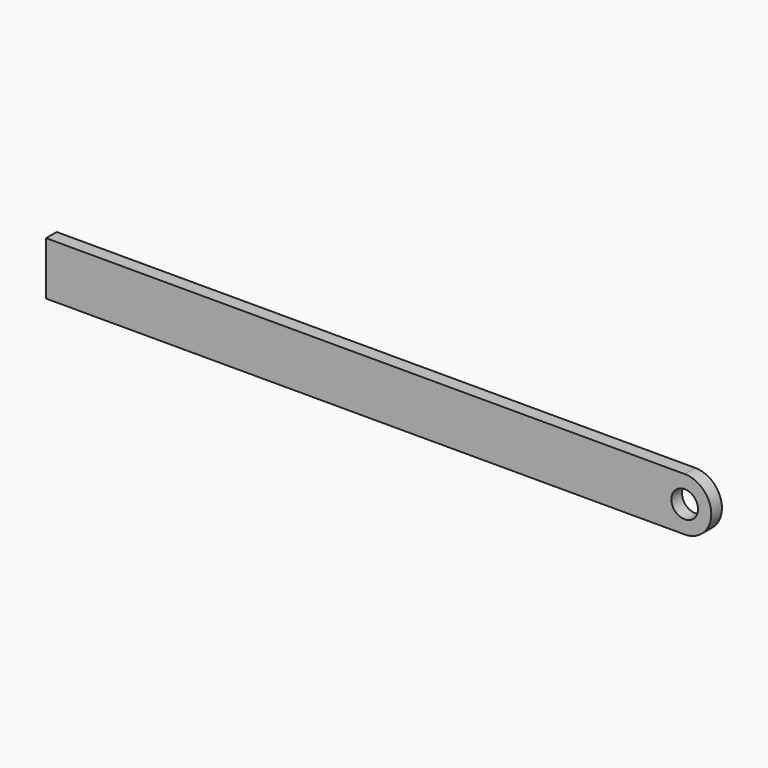
from build123d import *

# Parameters (mm, degrees)
F0_R     = 6.35
F1_DEPTH = 3.175


with BuildPart() as f1:
    # F0 (on Front) → F1 (new body, symmetric)
    with BuildSketch(Plane.XZ):
        with BuildLine():
            ThreePointArc((152.4, -12.7), (165.1, 0), (152.4, 12.7))
            Line((152.4, 12.7), (-152.4, 12.7))
            Line((-152.4, 12.7), (-152.4, -12.7))
            Line((-152.4, -12.7), (152.4, -12.7))
        make_face()
        with Locations((152.4, 0)):
            Circle(F0_R, mode=Mode.SUBTRACT)
    extrude(amount=F1_DEPTH, both=True)


solid = f1.part
